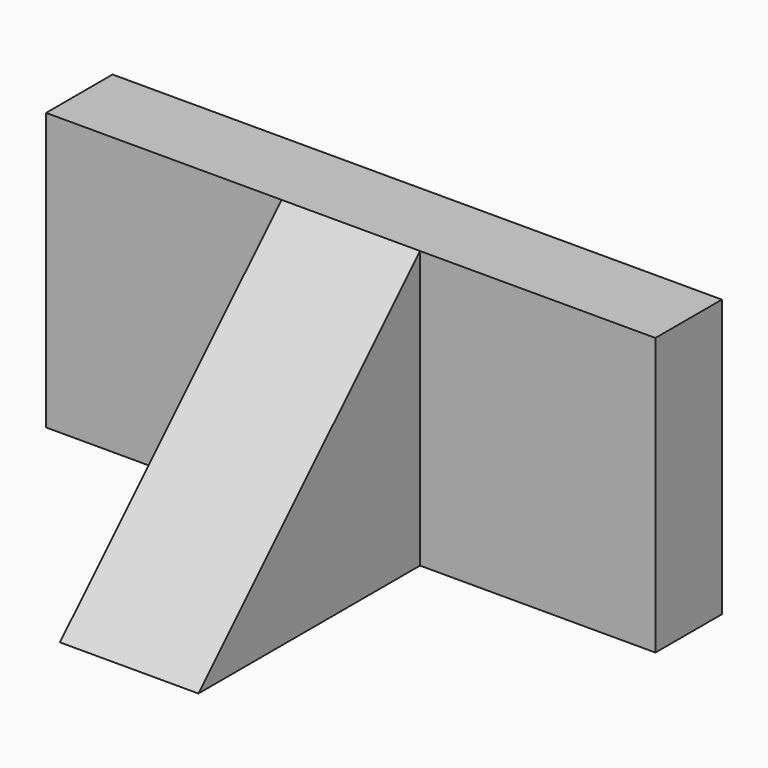
from build123d import *

# Parameters (mm, degrees)
F0_W     = 5
F0_H     = 10
F1_DEPTH = 10
F3_DEPTH = 13.501


with BuildPart() as f1:
    # F0 (on Top) → F1 (new body)
    with BuildSketch(Plane.XY):
        Polygon((22, 0), (0, 0), (0, -3), (8.5, -3), (13.5, -3), (22, -3), align=None)
        with Locations((11, -8)):
            Rectangle(F0_W, F0_H)
    extrude(amount=F1_DEPTH)

    # F2 (on face) → F3 (cut, through all)
    with BuildSketch(Plane.YZ.offset(13.5)):
        Polygon((-13, 10), (-13, 0), (-3, 10), align=None)
    extrude(amount=-F3_DEPTH, mode=Mode.SUBTRACT)


solid = f1.part
